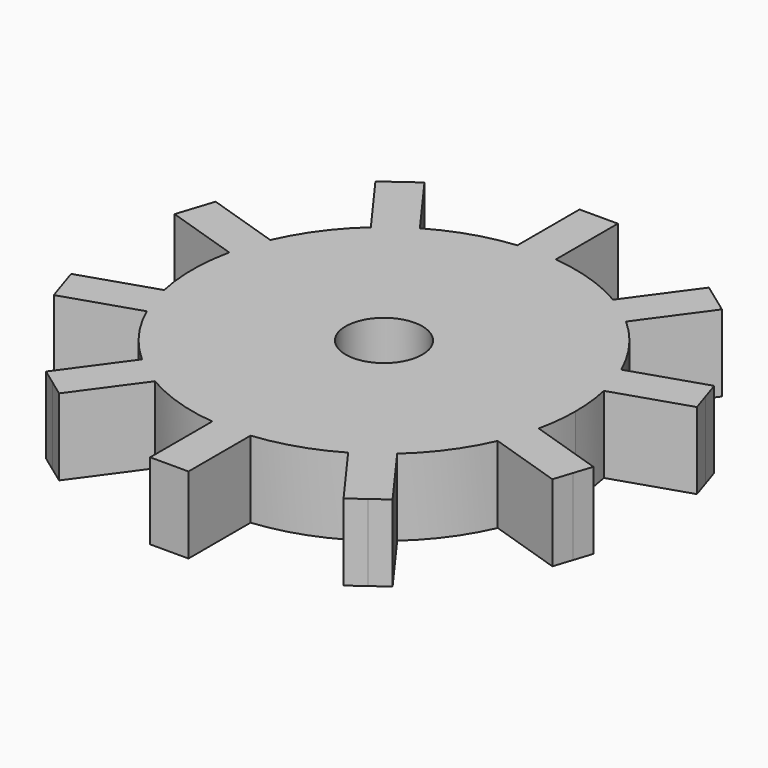
from build123d import *

# Parameters (mm, degrees)
F1_DEPTH = 2
F2_R     = 1
F3_DEPTH = 2.001


with BuildPart() as f1:
    # F0 (on Top) → F1 (new body)
    with BuildSketch(Plane.XY):
        with BuildLine():
            ThreePointArc((4.885955, -1.061812), (4.971407, -0.533959), (5, 0))
            ThreePointArc((5, 0), (4.971407, 0.533959), (4.885955, 1.061812))
            ThreePointArc((4.885955, 1.061812), (4.755283, 1.545085), (4.576938, 2.012868))
            ThreePointArc((4.576938, 2.012868), (4.045085, 2.938926), (3.328703, 3.730916))
            ThreePointArc((3.328703, 3.730916), (2.938926, 4.045085), (2.519686, 4.318701))
            ThreePointArc((2.519686, 4.318701), (1.545085, 4.755283), (0.5, 4.974937))
            ThreePointArc((0.5, 4.974937), (0, 5), (-0.5, 4.974937))
            ThreePointArc((-0.5, 4.974937), (-1.545085, 4.755283), (-2.519686, 4.318701))
            ThreePointArc((-2.519686, 4.318701), (-2.938926, 4.045085), (-3.328703, 3.730916))
            ThreePointArc((-3.328703, 3.730916), (-4.045085, 2.938926), (-4.576938, 2.012868))
            ThreePointArc((-4.576938, 2.012868), (-4.755283, 1.545085), (-4.885955, 1.061812))
            ThreePointArc((-4.885955, 1.061812), (-5, 0), (-4.885955, -1.061812))
            ThreePointArc((-4.885955, -1.061812), (-4.755283, -1.545085), (-4.576938, -2.012868))
            ThreePointArc((-4.576938, -2.012868), (-4.045085, -2.938926), (-3.328703, -3.730916))
            ThreePointArc((-3.328703, -3.730916), (-2.938926, -4.045085), (-2.519686, -4.318701))
            ThreePointArc((-2.519686, -4.318701), (-1.545085, -4.755283), (-0.5, -4.974937))
            ThreePointArc((-0.5, -4.974937), (0, -5), (0.5, -4.974937))
            ThreePointArc((0.5, -4.974937), (1.545085, -4.755283), (2.519686, -4.318701))
            ThreePointArc((2.519686, -4.318701), (2.938926, -4.045085), (3.328703, -3.730916))
            ThreePointArc((3.328703, -3.730916), (4.045085, -2.938926), (4.576938, -2.012868))
            ThreePointArc((4.576938, -2.012868), (4.755283, -1.545085), (4.885955, -1.061812))
        make_face()
        with BuildLine():
            ThreePointArc((4.576938, 2.012868), (4.755283, 1.545085), (4.885955, 1.061812))
            Line((4.885955, 1.061812), (6.811904, 1.687591))
            Line((6.811904, 1.687591), (6.657396, 2.163119))
            Line((6.657396, 2.163119), (6.502887, 2.638647))
            Line((6.502887, 2.638647), (4.576938, 2.012868))
        make_face()
        with BuildLine():
            Line((6.811904, -1.687591), (4.885955, -1.061812))
            ThreePointArc((4.885955, -1.061812), (4.755283, -1.545085), (4.576938, -2.012868))
            Line((4.576938, -2.012868), (6.502887, -2.638647))
            Line((6.502887, -2.638647), (6.657396, -2.163119))
            Line((6.657396, -2.163119), (6.811904, -1.687591))
        make_face()
        with BuildLine():
            ThreePointArc((2.519686, 4.318701), (2.938926, 4.045085), (3.328703, 3.730916))
            Line((3.328703, 3.730916), (4.519005, 5.369226))
            Line((4.519005, 5.369226), (4.114497, 5.663119))
            Line((4.114497, 5.663119), (3.709988, 5.957012))
            Line((3.709988, 5.957012), (2.519686, 4.318701))
        make_face()
        with BuildLine():
            Line((4.519005, -5.369226), (3.328703, -3.730916))
            ThreePointArc((3.328703, -3.730916), (2.938926, -4.045085), (2.519686, -4.318701))
            Line((2.519686, -4.318701), (3.709988, -5.957012))
            Line((3.709988, -5.957012), (4.114497, -5.663119))
            Line((4.114497, -5.663119), (4.519005, -5.369226))
        make_face()
        with BuildLine():
            ThreePointArc((-0.5, 4.974937), (0, 5), (0.5, 4.974937))
            Line((0.5, 4.974937), (0.5, 7))
            Line((0.5, 7), (0, 7))
            Line((0, 7), (-0.5, 7))
            Line((-0.5, 7), (-0.5, 4.974937))
        make_face()
        with BuildLine():
            Line((0.5, -7), (0.5, -4.974937))
            ThreePointArc((0.5, -4.974937), (0, -5), (-0.5, -4.974937))
            Line((-0.5, -4.974937), (-0.5, -7))
            Line((-0.5, -7), (0, -7))
            Line((0, -7), (0.5, -7))
        make_face()
        with BuildLine():
            ThreePointArc((-3.328703, 3.730916), (-2.938926, 4.045085), (-2.519686, 4.318701))
            Line((-2.519686, 4.318701), (-3.709988, 5.957012))
            Line((-3.709988, 5.957012), (-4.114497, 5.663119))
            Line((-4.114497, 5.663119), (-4.519005, 5.369226))
            Line((-4.519005, 5.369226), (-3.328703, 3.730916))
        make_face()
        with BuildLine():
            Line((-3.709988, -5.957012), (-2.519686, -4.318701))
            ThreePointArc((-2.519686, -4.318701), (-2.938926, -4.045085), (-3.328703, -3.730916))
            Line((-3.328703, -3.730916), (-4.519005, -5.369226))
            Line((-4.519005, -5.369226), (-4.114497, -5.663119))
            Line((-4.114497, -5.663119), (-3.709988, -5.957012))
        make_face()
        with BuildLine():
            ThreePointArc((-4.885955, 1.061812), (-4.755283, 1.545085), (-4.576938, 2.012868))
            Line((-4.576938, 2.012868), (-6.502887, 2.638647))
            Line((-6.502887, 2.638647), (-6.657396, 2.163119))
            Line((-6.657396, 2.163119), (-6.811904, 1.687591))
            Line((-6.811904, 1.687591), (-4.885955, 1.061812))
        make_face()
        with BuildLine():
            Line((-6.502887, -2.638647), (-4.576938, -2.012868))
            ThreePointArc((-4.576938, -2.012868), (-4.755283, -1.545085), (-4.885955, -1.061812))
            Line((-4.885955, -1.061812), (-6.811904, -1.687591))
            Line((-6.811904, -1.687591), (-6.657396, -2.163119))
            Line((-6.657396, -2.163119), (-6.502887, -2.638647))
        make_face()
    extrude(amount=F1_DEPTH)

    # F2 (on face) → F3 (cut, through all)
    with BuildSketch(Plane.XY.offset(2)):
        Circle(F2_R)
    extrude(amount=-F3_DEPTH, mode=Mode.SUBTRACT)


solid = f1.part
